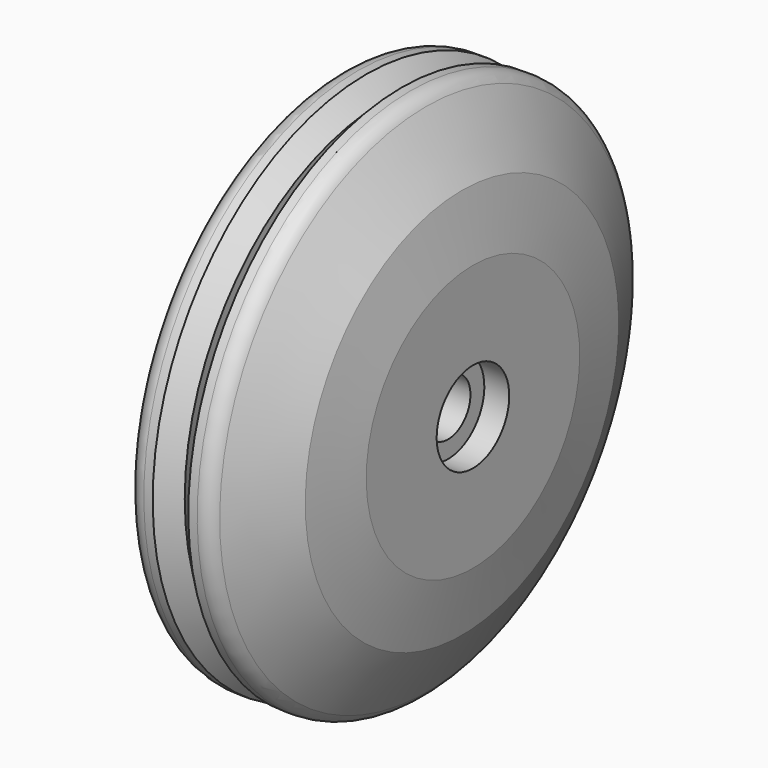
from build123d import *


with BuildPart() as f1:
    # F0 (on Front) → F1 (revolve)
    with BuildSketch(Plane.XZ):
        with BuildLine():
            Line((0, 28), (0, 0))
            Line((0, 0), (5, 0))
            Line((5, 0), (5, 3.15))
            Line((5, 3.15), (12.2, 3.15))
            Line((12.2, 3.15), (12.2, 5.1))
            Line((12.2, 5.1), (15, 5.1))
            Line((15, 5.1), (15, 15))
            Line((15, 15), (13.762285, 22.019429))
            Line((13.762285, 22.019429), (9.732051, 29))
            ThreePointArc((9.732051, 29), (9, 29.732051), (8, 30))
            Line((8, 30), (7, 30))
            Line((7, 30), (5, 28))
            Line((5, 28), (3, 30))
            Line((3, 30), (2, 30))
            ThreePointArc((2, 30), (0.585786, 29.414214), (0, 28))
        make_face()
    revolve(axis=Axis((2.5, 0, 0), (-1, 0, 0)))


solid = f1.part
